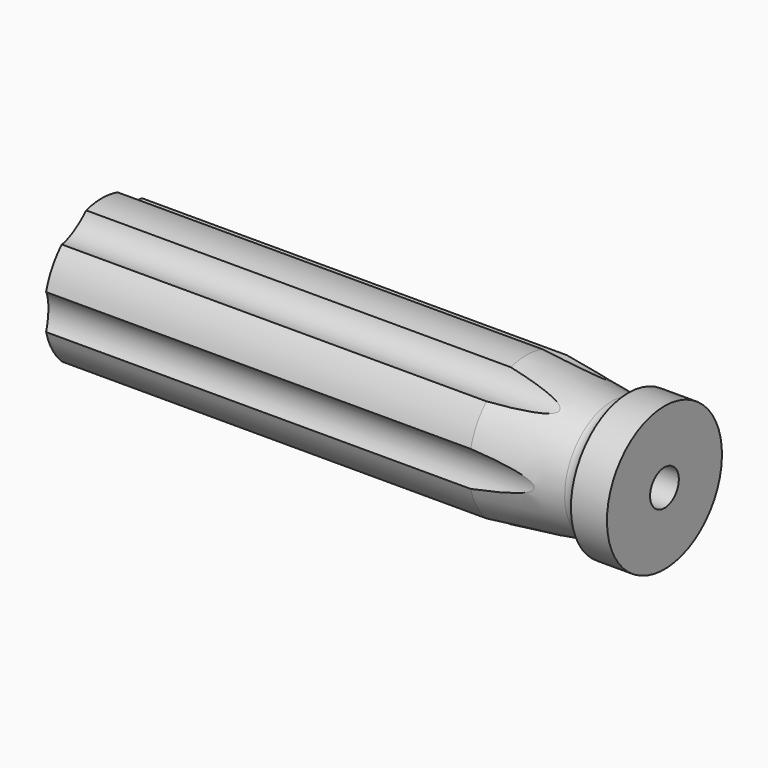
from build123d import *

# Parameters (mm, degrees)
F3_START = -8.89
F2_R     = 4.826
F3_DEPTH = 92.71
F4_R     = 3.175
F5_DEPTH = 41.148


with BuildPart() as f1:
    # F0 (on Front) → F1 (revolve)
    with BuildSketch(Plane.XZ):
        with BuildLine():
            Line((-6.35, 0), (0, 0))
            Line((0, 0), (0, 12.7))
            Line((0, 12.7), (-6.35, 12.7))
            Line((-6.35, 12.7), (-6.3650681608, 12.7))
            ThreePointArc((-6.3650681608, 12.7), (-7.3377104297, 10.9657874542), (-9.2615922964, 10.4635875931))
            Line((-9.2615922964, 10.4635875931), (-24.384, 12.7))
            Line((-24.384, 12.7), (-33.274, 12.7))
            Line((-33.274, 12.7), (-60.9909756098, 12.7))
            Line((-60.9909756098, 12.7), (-69.8809756098, 12.7))
            Line((-69.8809756098, 12.7), (-99.4210244843, 12.7))
            ThreePointArc((-99.4210244843, 12.7), (-101.0513051228, 6.4427853895), (-101.6, 0))
            Line((-101.6, 0), (-6.35, 0))
        make_face()
    revolve(axis=Axis((-50.8, 0, 0), (-1, 0, 0)))

    # F2 (on Right) → F3 (cut)
    with BuildSketch(Plane.YZ.offset(F3_START)):
        with Locations((-16.002, 0)):
            Circle(F2_R)
        with Locations((-8.001, 13.8581385114)):
            Circle(F2_R)
        with Locations((8.001, 13.8581385114)):
            Circle(F2_R)
        with Locations((16.002, 0)):
            Circle(F2_R)
        with Locations((8.001, -13.8581385114)):
            Circle(F2_R)
        with Locations((-8.001, -13.8581385114)):
            Circle(F2_R)
    extrude(amount=-F3_DEPTH, mode=Mode.SUBTRACT)

    # F4 (on Right) → F5 (cut)
    with BuildSketch(Plane.YZ):
        Circle(F4_R)
    extrude(amount=-F5_DEPTH, mode=Mode.SUBTRACT)


solid = f1.part
